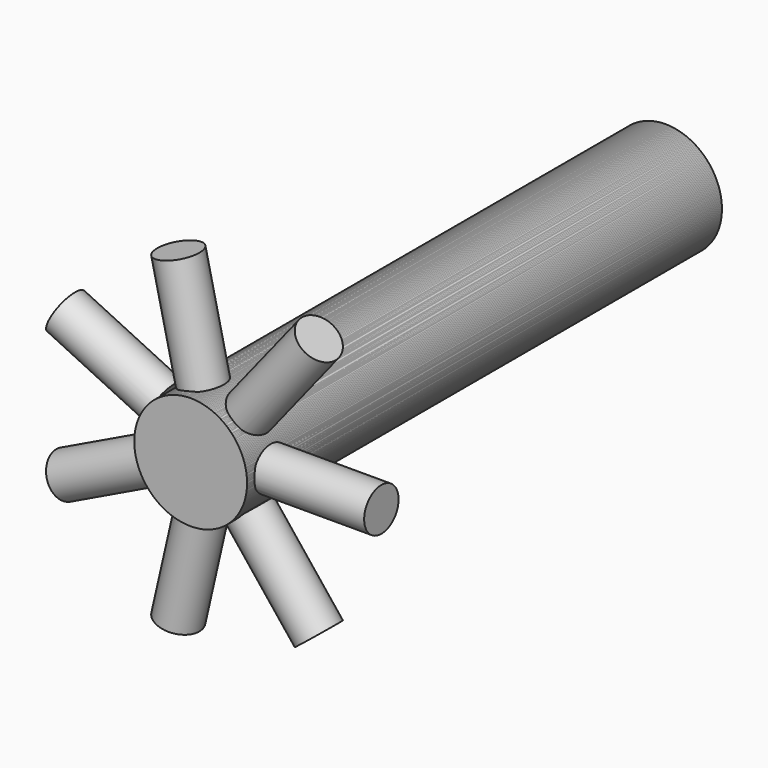
from build123d import *

# Parameters (mm, degrees)
F0_R     = 232.791
F1_DEPTH = 2451.1
F3_R     = 88.9
F4_DEPTH = 457.2
F5_COUNT = 7


with BuildPart() as f1:
    # F0 (on Front) → F1 (new body)
    with BuildSketch(Plane.XZ):
        Circle(F0_R)
    extrude(amount=-F1_DEPTH)

    # F3 (on offset) → F4 (join)
    with BuildSketch(Plane.YZ.offset(228.6)):
        with Locations((127, 0)):
            Circle(F3_R)
    extrude(amount=F4_DEPTH)


with BuildPart() as f5_1:
    # F5: instance of F1
    add(f1.part.rotate(Axis((0, 0, 0), (0, -1, 0)), 1 * 360 / F5_COUNT))


with BuildPart() as f5_2:
    # F5: instance of F1
    add(f1.part.rotate(Axis((0, 0, 0), (0, -1, 0)), 2 * 360 / F5_COUNT))


with BuildPart() as f5_3:
    # F5: instance of F1
    add(f1.part.rotate(Axis((0, 0, 0), (0, -1, 0)), 3 * 360 / F5_COUNT))


with BuildPart() as f5_4:
    # F5: instance of F1
    add(f1.part.rotate(Axis((0, 0, 0), (0, -1, 0)), 4 * 360 / F5_COUNT))


with BuildPart() as f5_5:
    # F5: instance of F1
    add(f1.part.rotate(Axis((0, 0, 0), (0, -1, 0)), 5 * 360 / F5_COUNT))


with BuildPart() as f5_6:
    # F5: instance of F1
    add(f1.part.rotate(Axis((0, 0, 0), (0, -1, 0)), 6 * 360 / F5_COUNT))


solid = Compound([f1.part, f5_1.part, f5_2.part, f5_3.part, f5_4.part, f5_5.part, f5_6.part])
